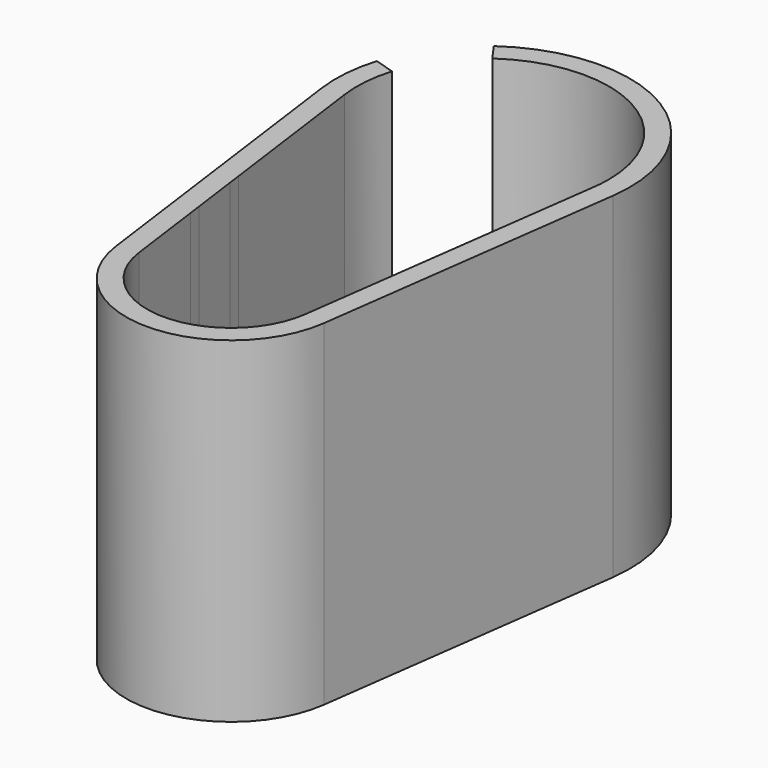
from build123d import *

# Parameters (mm, degrees)
F1_DEPTH = 32
F0_R     = 4
F0_R_2   = 4.8981963292
F0_R_3   = 2.949247213
F0_R_4   = 2.5
F0_R_5   = 1.5
F0_W     = 2.8284271247
F0_H     = 2.8284271247
F0_W_2   = 1.767766953
F0_H_2   = 1.767766953
F2_DEPTH = 2
F3_DEPTH = 3
F4_DEPTH = 6


with BuildPart() as f1:
    # F0 (on Top) → F1 (new body)
    with BuildSketch(Plane.XY):
        with BuildLine():
            Line((9.9107124982, -31.3333333333), (13.8749974975, -1.8666666667))
            ThreePointArc((13.8749974975, -1.8666666667), (7.2404165941, 11.9823356464), (-8.1052915892, 11.4150886223))
            Line((-8.1052915892, 11.4150886223), (-6.9473927907, 9.7843616762))
            ThreePointArc((-6.9473927907, 9.7843616762), (5.5059643348, 10.6622866565), (12, 0))
            ThreePointArc((12, 0), (11.9731837866, -0.8017917516), (11.8928549979, -1.6))
            Line((11.8928549979, -1.6), (9.843423449, -16.8334951494))
            Line((9.843423449, -16.8334951494), (9.6796856306, -18.0505639815))
            Line((9.6796856306, -18.0505639815), (9.0834008366, -22.4827693518))
            Line((9.0834008366, -22.4827693518), (8.9196630183, -23.6998381839))
            Line((8.9196630183, -23.6998381839), (7.9285699986, -31.0666666667))
            ThreePointArc((7.9285699986, -31.0666666667), (0, -38), (-7.9285699986, -31.0666666667))
            Line((-7.9285699986, -31.0666666667), (-8.9196630183, -23.6998381839))
            Line((-8.9196630183, -23.6998381839), (-9.0834008366, -22.4827693518))
            Line((-9.0834008366, -22.4827693518), (-9.6796856306, -18.0505639815))
            Line((-9.6796856306, -18.0505639815), (-9.843423449, -16.8334951494))
            Line((-9.843423449, -16.8334951494), (-11.892854985, -1.6000000955))
            ThreePointArc((-11.892854985, -1.6000000955), (-11.9601461079, 0.9771924467), (-11.4754059318, 3.5092817927))
            Line((-11.4754059318, 3.5092817927), (-13.3879735871, 4.0941620915))
            ThreePointArc((-13.3879735871, 4.0941620915), (-13.953503788, 1.1400579105), (-13.8749974975, -1.8666666667))
            Line((-13.8749974975, -1.8666666667), (-9.9107124982, -31.3333333333))
            ThreePointArc((-9.9107124982, -31.3333333333), (0, -40), (9.9107124982, -31.3333333333))
        make_face()
    extrude(amount=F1_DEPTH)

    # F0 (on Top) → F2 (join)
    with BuildSketch(Plane.XY):
        with BuildLine():
            ThreePointArc((12, 0), (5.5059643348, 10.6622866565), (-6.9473927907, 9.7843616762))
            ThreePointArc((-6.9473927907, 9.7843616762), (-9.7310860174, 7.0218206272), (-11.4754059318, 3.5092817927))
            ThreePointArc((-11.4754059318, 3.5092817927), (-11.9601461079, 0.9771924467), (-11.892854985, -1.6000000955))
            ThreePointArc((-11.892854985, -1.6000000955), (4.82e-08, -12), (11.8928549979, -1.6))
            ThreePointArc((11.8928549979, -1.6), (11.9731837866, -0.8017917516), (12, 0))
        make_face()
        Circle(F0_R, mode=Mode.SUBTRACT)
        with BuildLine():
            ThreePointArc((8, -30), (-0.5345278344, -22.0178774756), (-7.9285699986, -31.0666666667))
            ThreePointArc((-7.9285699986, -31.0666666667), (0, -38), (7.9285699986, -31.0666666667))
            ThreePointArc((7.9285699986, -31.0666666667), (7.9821225244, -30.5345278344), (8, -30))
        make_face()
        with Locations((0, -30)):
            Circle(F0_R_2, mode=Mode.SUBTRACT)
        with BuildLine():
            ThreePointArc((11.8928549979, -1.6), (4.82e-08, -12), (-11.892854985, -1.6000000955))
            Line((-11.892854985, -1.6000000955), (-9.843423449, -16.8334951494))
            ThreePointArc((-9.843423449, -16.8334951494), (-3.4351157347, -19.4666666667), (-8.9196630183, -23.6998381839))
            Line((-8.9196630183, -23.6998381839), (-7.9285699986, -31.0666666667))
            ThreePointArc((-7.9285699986, -31.0666666667), (-0.5345278344, -22.0178774756), (8, -30))
            ThreePointArc((8, -30), (7.9821225244, -30.5345278344), (7.9285699986, -31.0666666667))
            Line((7.9285699986, -31.0666666667), (8.9196630183, -23.6998381839))
            ThreePointArc((8.9196630183, -23.6998381839), (3.4351157347, -19.4666666667), (9.843423449, -16.8334951494))
            Line((9.843423449, -16.8334951494), (11.8928549979, -1.6))
        make_face()
        with Locations((0, -30)):
            Circle(F0_R_2)
        with Locations((0, -30)):
            Circle(F0_R_3, mode=Mode.SUBTRACT)
        Circle(F0_R)
        Circle(F0_R_4, mode=Mode.SUBTRACT)
        with Locations((0, -30)):
            Circle(F0_R_3)
        with Locations((0, -30)):
            Circle(F0_R_5, mode=Mode.SUBTRACT)
        with BuildLine():
            ThreePointArc((-9.0834008366, -22.4827693518), (-4.4261869845, -19.6), (-9.6796856306, -18.0505639815))
            Line((-9.6796856306, -18.0505639815), (-9.0834008366, -22.4827693518))
        make_face()
        with BuildLine():
            Line((9.0834008366, -22.4827693518), (9.6796856306, -18.0505639815))
            ThreePointArc((9.6796856306, -18.0505639815), (4.4261869845, -19.6), (9.0834008366, -22.4827693518))
        make_face()
        Circle(F0_R_4)
        Rectangle(F0_W, F0_H, mode=Mode.SUBTRACT)
        with BuildLine():
            Line((9.6796856306, -18.0505639815), (9.843423449, -16.8334951494))
            ThreePointArc((9.843423449, -16.8334951494), (3.4351157347, -19.4666666667), (8.9196630183, -23.6998381839))
            Line((8.9196630183, -23.6998381839), (9.0834008366, -22.4827693518))
            ThreePointArc((9.0834008366, -22.4827693518), (4.4261869845, -19.6), (9.6796856306, -18.0505639815))
        make_face()
        with BuildLine():
            ThreePointArc((-8.9196630183, -23.6998381839), (-3.4351157347, -19.4666666667), (-9.843423449, -16.8334951494))
            Line((-9.843423449, -16.8334951494), (-9.6796856306, -18.0505639815))
            ThreePointArc((-9.6796856306, -18.0505639815), (-4.4261869845, -19.6), (-9.0834008366, -22.4827693518))
            Line((-9.0834008366, -22.4827693518), (-8.9196630183, -23.6998381839))
        make_face()
        Rectangle(F0_W, F0_H)
        with Locations((0, -30)):
            Circle(F0_R_5)
        with Locations((0, -30)):
            Rectangle(F0_W_2, F0_H_2, mode=Mode.SUBTRACT)
        with Locations((0, -30)):
            Rectangle(F0_W_2, F0_H_2)
    extrude(amount=F2_DEPTH)

    # F0 (on Top) → F3 (cut)
    with BuildSketch(Plane.XY):
        Rectangle(F0_W, F0_H)
    extrude(amount=F3_DEPTH, mode=Mode.SUBTRACT)

    # F0 (on Top) → F4 (join)
    with BuildSketch(Plane.XY):
        with Locations((0, -30)):
            Circle(F0_R_5)
        with Locations((0, -30)):
            Rectangle(F0_W_2, F0_H_2, mode=Mode.SUBTRACT)
    extrude(amount=F4_DEPTH)


solid = f1.part
